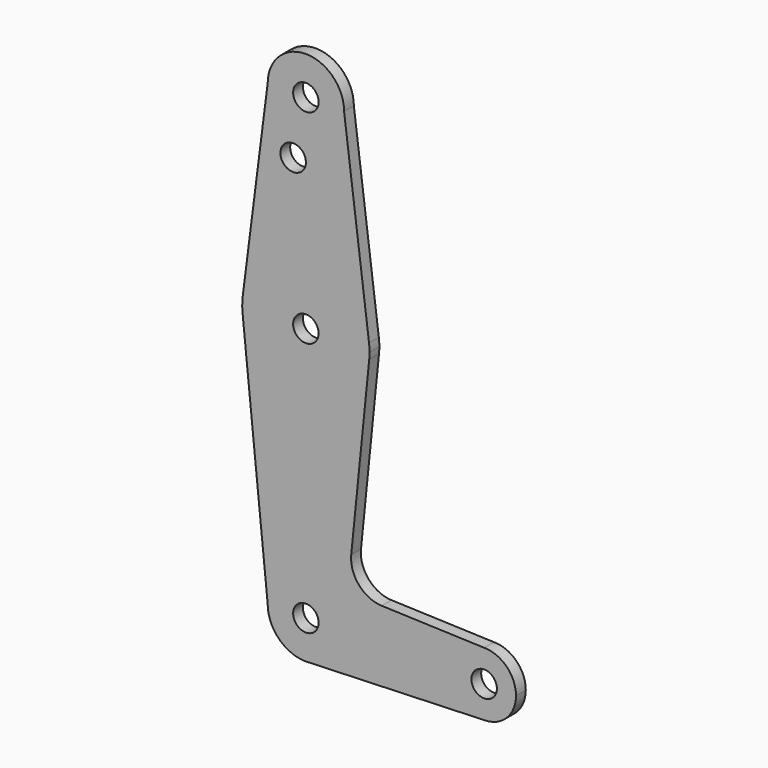
from build123d import *

# Parameters (mm, degrees)
F0_R     = 3.175
F1_DEPTH = 3.048


with BuildPart() as f1:
    # F0 (on Front) → F1 (new body)
    with BuildSketch(Plane.XZ):
        with BuildLine():
            ThreePointArc((-9.525, 114.3), (0, 104.775), (9.525, 114.3))
            ThreePointArc((9.525, 114.3), (0, 123.825), (-9.525, 114.3))
        make_face()
        with Locations((0, 114.3)):
            Circle(F0_R, mode=Mode.SUBTRACT)
        with BuildLine():
            Line((15.747457, 65.508289), (9.525, 114.3))
            ThreePointArc((9.525, 114.3), (0, 104.775), (-9.525, 114.3))
            Line((-9.525, 114.3), (-15.747457, 65.508289))
            ThreePointArc((-15.747457, 65.508289), (0, 79.375), (15.747457, 65.508289))
        make_face()
        with Locations((-3.175, 100.0252)):
            Circle(F0_R, mode=Mode.SUBTRACT)
        with BuildLine():
            ThreePointArc((15.875, 63.5), (15.843082, 64.506168), (15.747457, 65.508289))
            ThreePointArc((15.747457, 65.508289), (0, 79.375), (-15.747457, 65.508289))
            ThreePointArc((-15.747457, 65.508289), (-15.873668, 63.705667), (-15.794203, 61.90038))
            ThreePointArc((-15.794203, 61.90038), (0, 47.625), (15.794203, 61.90038))
            ThreePointArc((15.794203, 61.90038), (15.854788, 62.699171), (15.875, 63.5))
        make_face()
        with Locations((0, 63.5)):
            Circle(F0_R, mode=Mode.SUBTRACT)
        with BuildLine():
            ThreePointArc((15.794203, 61.90038), (0, 47.625), (-15.794203, 61.90038))
            Line((-15.794203, 61.90038), (-9.525, 0))
            ThreePointArc((-9.525, 0), (-6.735192, 6.735192), (0, 9.525))
            ThreePointArc((0, 9.525), (0.339962, 9.518931), (0.67949, 9.500732))
            ThreePointArc((0.67949, 9.500732), (6.97129, 6.490511), (9.525, 0))
            ThreePointArc((9.525, 0), (6.970557, -6.491299), (0.677344, -9.500886))
            Line((0.677344, -9.500886), (44.732405, -7.932475))
            ThreePointArc((44.732405, -7.932475), (36.513756, -0.141225), (44.45, 7.9375))
            Line((44.45, 7.9375), (18.932989, 8.848822))
            ThreePointArc((18.932989, 8.848822), (13.224462, 11.569184), (11.307007, 17.595046))
            Line((11.307007, 17.595046), (15.794203, 61.90038))
        make_face()
        with BuildLine():
            ThreePointArc((0, 9.525), (-6.735192, 6.735192), (-9.525, 0))
            ThreePointArc((-9.525, 0), (-6.735192, -6.735192), (0, -9.525))
            Line((0, -9.525), (0.677344, -9.500886))
            ThreePointArc((0.677344, -9.500886), (6.970557, -6.491299), (9.525, 0))
            ThreePointArc((9.525, 0), (6.97129, 6.490511), (0.67949, 9.500732))
            Line((0.67949, 9.500732), (0, 9.525))
        make_face()
        Circle(F0_R, mode=Mode.SUBTRACT)
        with BuildLine():
            Line((0.677344, -9.500886), (0, -9.525))
            ThreePointArc((0, -9.525), (0.338886, -9.51897), (0.677344, -9.500886))
        make_face()
        with BuildLine():
            ThreePointArc((52.3875, 0), (50.06266, 5.61266), (44.45, 7.9375))
            ThreePointArc((44.45, 7.9375), (36.513756, -0.141225), (44.732405, -7.932475))
            ThreePointArc((44.732405, -7.932475), (50.161633, -5.51191), (52.3875, 0))
        make_face()
        with Locations((44.45, 0)):
            Circle(F0_R, mode=Mode.SUBTRACT)
    extrude(amount=F1_DEPTH)


solid = f1.part
